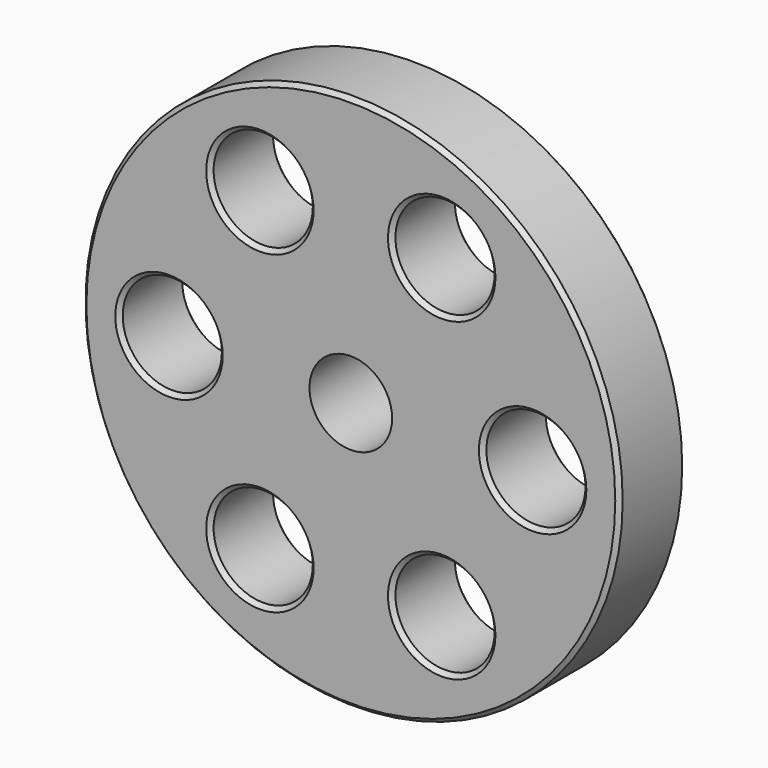
from build123d import *

# Parameters (mm, degrees)
F0_R     = 32.5
F0_R_2   = 6
F0_R_3   = 5
F1_DEPTH = 5
F2_SIZE  = 0.5
F3_SIZE  = 0.5
F4_SIZE  = 0.5


with BuildPart() as f1:
    # F0 (on Front) → F1 (new body, symmetric)
    with BuildSketch(Plane.XZ):
        Circle(F0_R)
        with Locations((-11, -19.052559)):
            Circle(F0_R_2, mode=Mode.SUBTRACT)
        with Locations((11, -19.052559)):
            Circle(F0_R_2, mode=Mode.SUBTRACT)
        with Locations((-22, 0)):
            Circle(F0_R_2, mode=Mode.SUBTRACT)
        with Locations((-11, 19.052559)):
            Circle(F0_R_2, mode=Mode.SUBTRACT)
        Circle(F0_R_3, mode=Mode.SUBTRACT)
        with Locations((22, 0)):
            Circle(F0_R_2, mode=Mode.SUBTRACT)
        with Locations((11, 19.052559)):
            Circle(F0_R_2, mode=Mode.SUBTRACT)
    extrude(amount=F1_DEPTH, both=True)

    # F2
    f2_edges = [f1.edges().sort_by_distance(p)[0] for p in [
        (-32.5, -5, 0),
    ]]
    chamfer(f2_edges, length=F2_SIZE)

    # F3
    f3_edges = [f1.edges().sort_by_distance(p)[0] for p in [
        (5, 5, -19.052559),
        (5, -5, -19.052559),
        (16, 5, 0),
        (5, 5, 19.052559),
        (-32.5, 5, 0),
        (-17, 5, 19.052559),
        (-28, 5, 0),
        (-17, 5, -19.052559),
        (16, -5, 0),
        (5, -5, 19.052559),
        (-17, -5, 19.052559),
        (-17, -5, -19.052559),
    ]]
    chamfer(f3_edges, length=F3_SIZE)

    # F4
    f4_edges = [f1.edges().sort_by_distance(p)[0] for p in [
        (-28, -5, 0),
    ]]
    chamfer(f4_edges, length=F4_SIZE)


solid = f1.part
